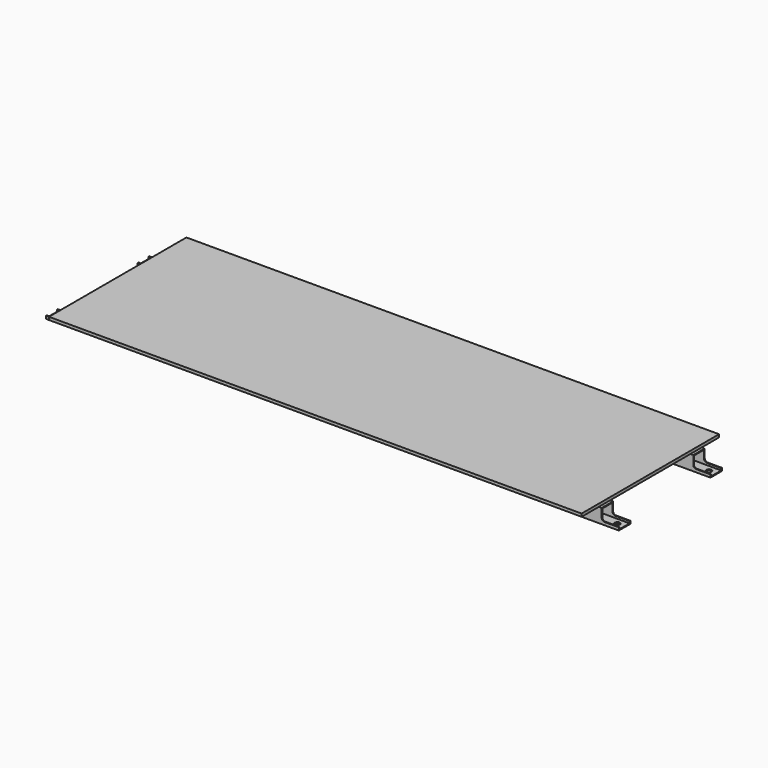
from build123d import *

# Parameters (mm, degrees)
F0_W     = 50
F0_H     = 50
F0_W_2   = 44
F0_H_2   = 44
F1_DEPTH = 1000
F2_W     = 1860
F2_H     = 600
F3_DEPTH = 10
F4_W     = 60
F4_H     = 50
F5_DEPTH = 40
F6_R     = 10
F7_R     = 10
F8_R     = 9
F9_DEPTH = 5


with BuildPart() as f1:
    # F0 (on Right) → F1 (new body, symmetric)
    with BuildSketch(Plane.YZ):
        with Locations((-200, 0)):
            Rectangle(F0_W, F0_H)
        with Locations((-200, 0)):
            Rectangle(F0_W_2, F0_H_2, mode=Mode.SUBTRACT)
        with Locations((200, 0)):
            Rectangle(F0_W, F0_H)
        with Locations((200, 0)):
            Rectangle(F0_W_2, F0_H_2, mode=Mode.SUBTRACT)
    extrude(amount=F1_DEPTH, both=True)

    # F4 (on face) → F5 (cut)
    with BuildSketch(Plane.XY.offset(25)):
        with Locations((-970, 200)):
            Rectangle(F4_W, F4_H)
        with Locations((-970, -200)):
            Rectangle(F4_W, F4_H)
        with Locations((970, 200)):
            Rectangle(F4_W, F4_H)
        with Locations((970, -200)):
            Rectangle(F4_W, F4_H)
    extrude(amount=-F5_DEPTH, mode=Mode.SUBTRACT)

    # F6
    f6_edges = [f1.edges().sort_by_distance(p)[0] for p in [
        (-940, 176.5, -15),
        (-940, 223.5, -15),
        (-940, -223.5, -15),
        (-940, -176.5, -15),
    ]]
    fillet(f6_edges, radius=F6_R)

    # F7
    f7_edges = [f1.edges().sort_by_distance(p)[0] for p in [
        (940, -223.5, -15),
        (940, -176.5, -15),
        (940, 176.5, -15),
        (940, 223.5, -15),
    ]]
    fillet(f7_edges, radius=F7_R)

    # F8 (on face) → F9 (cut)
    with BuildSketch(Plane.XY.offset(-22)):
        with Locations((-975, 200)):
            Circle(F8_R)
        with Locations((-975, -200)):
            Circle(F8_R)
        with Locations((975, 200)):
            Circle(F8_R)
        with Locations((975, -200)):
            Circle(F8_R)
        with Locations((2925, 200)):
            Circle(F8_R)
        with Locations((2925, -200)):
            Circle(F8_R)
    extrude(amount=-F9_DEPTH, mode=Mode.SUBTRACT)


with BuildPart() as f3:
    # F2 (on face) → F3 (new body)
    with BuildSketch(Plane.XY.offset(25)):
        Rectangle(F2_W, F2_H)
    extrude(amount=F3_DEPTH)


solid = Compound([f1.part, f3.part])
